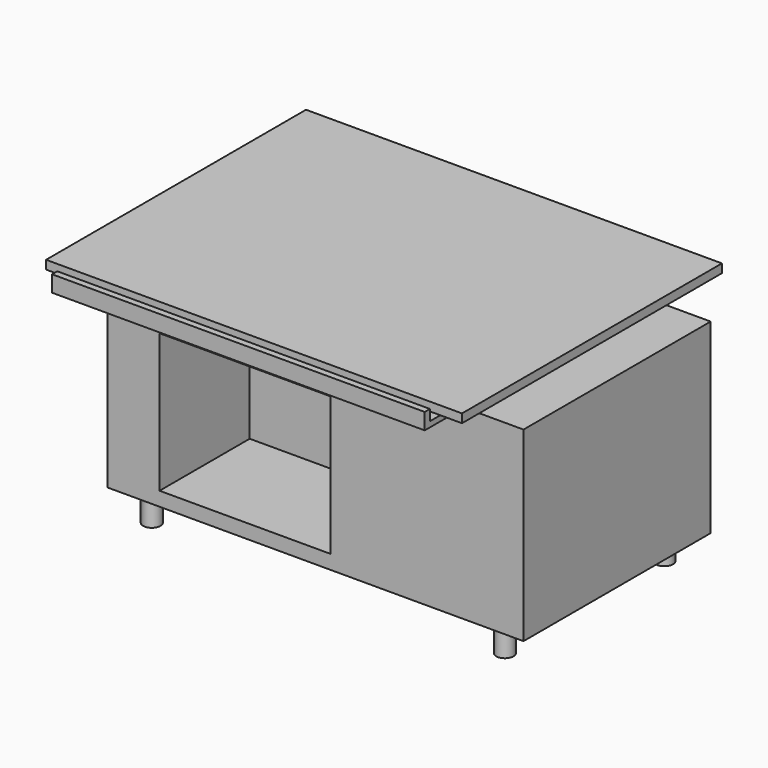
from build123d import *

# Parameters (mm, degrees)
F0_R      = 25.4
F1_DEPTH  = 82.55
F2_W      = 1219.2
F2_H      = 685.8
F3_DEPTH  = 546.1
F4_W      = 501.65
F4_H      = 406.4
F5_DEPTH  = 330.2
F7_W      = 1219.2
F7_H      = 952.5
F8_DEPTH  = 25.4
F11_DEPTH = 546.1


with BuildPart() as f1:
    # F0 (on Top) → F1 (new body)
    with BuildSketch(Plane.XY):
        with Locations((1035.05, 0)):
            Circle(F0_R)
    extrude(amount=F1_DEPTH)


with BuildPart() as f1b:
    # F0 (on Top) → F1, piece 2 (new body)
    with BuildSketch(Plane.XY):
        Circle(F0_R)
    extrude(amount=F1_DEPTH)


with BuildPart() as f1c:
    # F0 (on Top) → F1, piece 3 (new body)
    with BuildSketch(Plane.XY):
        with Locations((1035.05, 584.2)):
            Circle(F0_R)
    extrude(amount=F1_DEPTH)


with BuildPart() as f1d:
    # F0 (on Top) → F1, piece 4 (new body)
    with BuildSketch(Plane.XY):
        with Locations((0, 584.2)):
            Circle(F0_R)
    extrude(amount=F1_DEPTH)


with BuildPart() as f3:
    # F2 (on face) → F3 (new body)
    with BuildSketch(Plane.XY.offset(82.55)):
        with Locations((520.7, 292.1)):
            Rectangle(F2_W, F2_H)
    extrude(amount=F3_DEPTH)

    # F4 (on face) → F5 (cut)
    with BuildSketch(Plane.XZ.offset(50.8)):
        with Locations((314.325, 327.025)):
            Rectangle(F4_W, F4_H)
    extrude(amount=-F5_DEPTH, mode=Mode.SUBTRACT)


with BuildPart() as f8:
    # F7 (on offset) → F8 (new body)
    with BuildSketch(Plane.XY.offset(762)):
        with Locations((520.7, 200.025)):
            Rectangle(F7_W, F7_H)
    extrude(amount=-F8_DEPTH)


with BuildPart() as f11:
    # F10 (on mid) → F11 (new body, symmetric)
    with BuildSketch(Plane.YZ.offset(520.7)):
        Polygon((-241.3, 720.725), (-241.3, 736.6), (-314.325, 736.6), (-314.325, 768.35), (-333.375, 768.35), (-333.375, 720.725), align=None)
    extrude(amount=F11_DEPTH, both=True)


solid = Compound([f1.part, f1b.part, f1c.part, f1d.part, f3.part, f8.part, f11.part])
